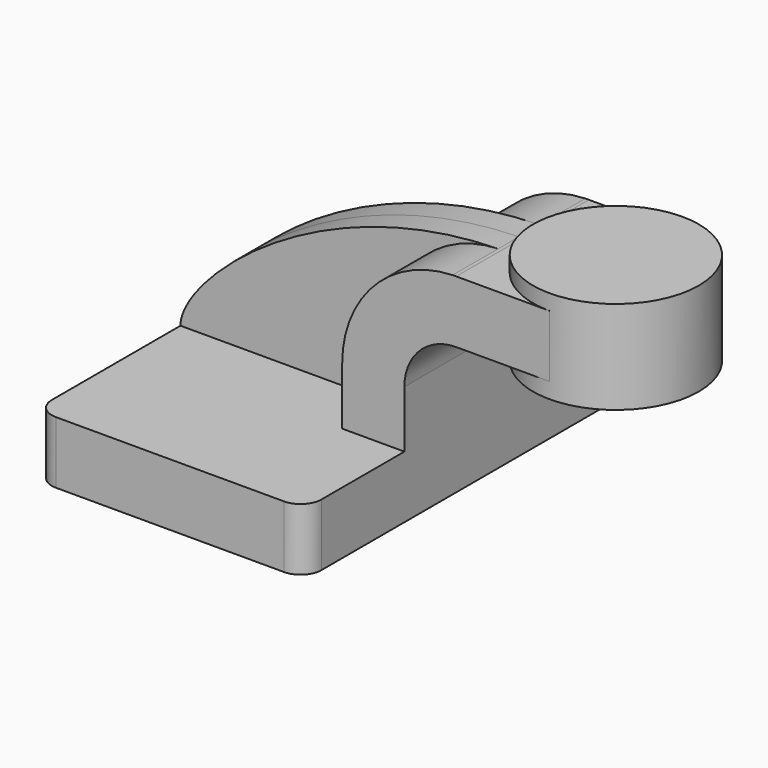
from build123d import *

# Parameters (mm, degrees)
F1_DEPTH = 63.5
F0_W     = 25.4
F0_H     = 19.05
F2_DEPTH = 25.4
F3_DEPTH = 7.9375
F5_R     = 6.35


with BuildPart() as f1:
    # F0 (on Front) → F1 (new body, symmetric)
    with BuildSketch(Plane.XZ):
        Polygon((-41.275, -9.525), (41.275, -9.525), (41.275, 9.525), (22.225, 9.525), (-41.275, 9.525), align=None)
    extrude(amount=F1_DEPTH, both=True)

    # F0 (on Front) → F2 (join, symmetric)
    with BuildSketch(Plane.XZ):
        with BuildLine():
            Line((22.225, 9.525), (41.275, 9.525))
            Line((41.275, 9.525), (41.275, 27.0002))
            ThreePointArc((41.275, 27.0002), (45.9246798487, 38.2255201513), (57.15, 42.8752))
            Line((57.15, 42.8752), (60.325, 42.8752))
            Line((60.325, 42.8752), (60.325, 61.9252))
            Line((60.325, 61.9252), (57.15, 61.9252))
            add(Edge.make_bspline(
                [(56.0347498693, 61.9073889751), (56.4058210674, 61.9149064167), (56.7775734541, 61.9208491497), (57.15, 61.9252)],
                knots=[110.777900131, 110.777900131, 110.777900131, 110.777900131, 111.5045361635, 111.5045361635, 111.5045361635, 111.5045361635], degree=3))
            ThreePointArc((56.0347498693, 61.9073889751), (32.063093696, 51.2984048121), (22.225, 27.0002))
            Line((22.225, 27.0002), (22.225, 9.525))
        make_face()
        with Locations((73.025, 52.4002)):
            Rectangle(F0_W, F0_H)
    extrude(amount=F2_DEPTH, both=True)

    # F0 (on Front) → F3 (join, symmetric)
    with BuildSketch(Plane.XZ):
        with BuildLine():
            add(Edge.make_bspline(
                [(-41.275, 9.525), (-41.275, 23.015992373), (-0.5361966411, 60.7613318692), (56.0347498693, 61.9073889751)],
                knots=[0, 0, 0, 0, 110.777900131, 110.777900131, 110.777900131, 110.777900131], degree=3))
            Line((-41.275, 9.525), (22.225, 9.525))
            Line((22.225, 9.525), (22.225, 27.0002))
            ThreePointArc((22.225, 27.0002), (32.063093696, 51.2984048121), (56.0347498693, 61.9073889751))
        make_face()
    extrude(amount=F3_DEPTH, both=True)

    # F5
    f5_edges = [f1.edges().sort_by_distance(p)[0] for p in [
        (41.275, -63.5, 0),
        (41.275, 63.5, 0),
        (-41.275, -63.5, 0),
        (-41.275, 63.5, 0),
    ]]
    fillet(f5_edges, radius=F5_R)


with BuildPart() as f4:
    # F0 (on Front) → F4 (revolve)
    with BuildSketch(Plane.XZ):
        Polygon((85.725, 61.9252), (85.725, 42.8752), (85.725, 38.1), (111.125, 38.1), (111.125, 66.675), (85.725, 66.675), align=None)
    revolve(axis=Axis((85.725, 0, 52.3875), (0, 0, 1)))


solid = Compound([f1.part, f4.part])
